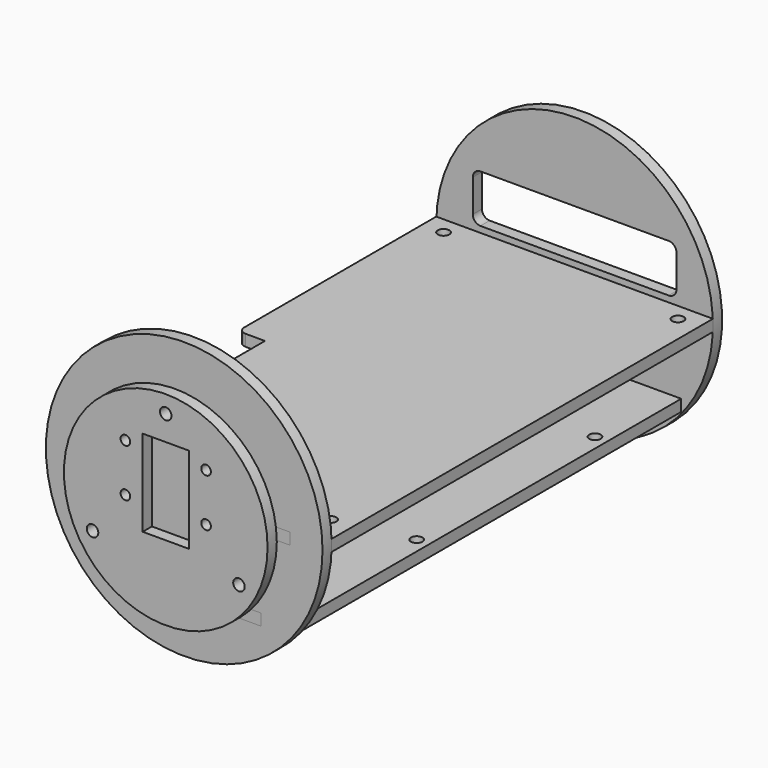
from build123d import *

# Parameters (mm, degrees)
F0_R      = 1.5
F0_W      = 15
F0_H      = 3
F1_DEPTH  = 3
F2_R      = 2
F3_R      = 36
F3_W      = 15
F3_H      = 3
F4_DEPTH  = 3
F5_R      = 36
F5_W      = 15
F5_H      = 3
F6_DEPTH  = 3
F8_R      = 1.5
F8_W      = 10
F8_H      = 3
F9_DEPTH  = 3
F10_W     = 10
F10_H     = 3
F11_DEPTH = 130
F13_R     = 26.5
F13_R_2   = 1.5
F13_R_3   = 1.25
F13_W     = 12
F13_H     = 22.5
F14_DEPTH = 3
F15_DEPTH = 25


with BuildPart() as f1:
    # F0 (on Top) → F1 (new body)
    with BuildSketch(Plane.XY):
        Polygon((-27.5, 62), (-36, 62), (-36, -2.48), (-29, -2.48), (-29, -17.48), (-36, -17.48), (-36, -62), (-27.5, -62), (-12.5, -62), (12.5, -62), (27.5, -62), (36, -62), (36, 62), (27.5, 62), (12.5, 62), (-12.5, 62), align=None)
        with Locations((-30.5, -55.5)):
            Circle(F0_R, mode=Mode.SUBTRACT)
        with Locations((30.5, -55.5)):
            Circle(F0_R, mode=Mode.SUBTRACT)
        with Locations((-30.5, 57.5)):
            Circle(F0_R, mode=Mode.SUBTRACT)
        with Locations((30.5, 57.5)):
            Circle(F0_R, mode=Mode.SUBTRACT)
        with Locations((20, 63.5)):
            Rectangle(F0_W, F0_H)
        with Locations((-20, 63.5)):
            Rectangle(F0_W, F0_H)
        with Locations((20, -63.5)):
            Rectangle(F0_W, F0_H)
        with Locations((-20, -63.5)):
            Rectangle(F0_W, F0_H)
    extrude(amount=F1_DEPTH)

    # F2
    f2_edges = [f1.edges().sort_by_distance(p)[0] for p in [
        (-36, -2.48, 1.5),
        (-36, -17.48, 1.5),
    ]]
    fillet(f2_edges, radius=F2_R)


with BuildPart() as f4:
    # F3 (on face) → F4 (new body)
    with BuildSketch(Plane.XZ.offset(62)):
        with Locations((0, 1.6103106318)):
            Circle(F3_R)
        with Locations((-20, 1.5)):
            Rectangle(F3_W, F3_H, mode=Mode.SUBTRACT)
        with Locations((20, 1.5)):
            Rectangle(F3_W, F3_H, mode=Mode.SUBTRACT)
    extrude(amount=F4_DEPTH)


with BuildPart() as f6:
    # F5 (on face) → F6 (new body)
    with BuildSketch(Plane(origin=(0, 62, 0), x_dir=(-1, 0, 0), z_dir=(0, 1, 0))):
        with Locations((0, 1.5)):
            Circle(F5_R)
        with Locations((-20, 1.5)):
            Rectangle(F5_W, F5_H, mode=Mode.SUBTRACT)
        with BuildLine():
            ThreePointArc((-26.5, 15.1), (-25.9142135624, 16.5142135624), (-24.5, 17.1))
            Line((-24.5, 17.1), (24.5, 17.1))
            ThreePointArc((24.5, 17.1), (25.9142135624, 16.5142135624), (26.5, 15.1))
            Line((26.5, 15.1), (26.5, 6.6))
            ThreePointArc((26.5, 6.6), (25.9142135624, 5.1857864376), (24.5, 4.6))
            Line((24.5, 4.6), (-24.5, 4.6))
            ThreePointArc((-24.5, 4.6), (-25.9142135624, 5.1857864376), (-26.5, 6.6))
            Line((-26.5, 6.6), (-26.5, 15.1))
        make_face(mode=Mode.SUBTRACT)
        with Locations((20, 1.5)):
            Rectangle(F5_W, F5_H, mode=Mode.SUBTRACT)
    extrude(amount=F6_DEPTH)


with BuildPart() as f9:
    # F8 (on offset) → F9 (new body)
    with BuildSketch(Plane(origin=(0, 0, -18), x_dir=(1, 0, 0), z_dir=(0, 0, -1))):
        Polygon((-20, 62), (-27.75, 62), (-27.75, -62), (-20, -62), (-10, -62), (10, -62), (20, -62), (27.75, -62), (27.75, 62), (20, 62), (10, 62), (-10, 62), align=None)
        with Locations((-24.5, -38)):
            Circle(F8_R, mode=Mode.SUBTRACT)
        with Locations((24.5, -38)):
            Circle(F8_R, mode=Mode.SUBTRACT)
        with Locations((-24.5, 20)):
            Circle(F8_R, mode=Mode.SUBTRACT)
        with Locations((24.5, 20)):
            Circle(F8_R, mode=Mode.SUBTRACT)
        with Locations((-15, 63.5)):
            Rectangle(F8_W, F8_H)
        with Locations((-15, -63.5)):
            Rectangle(F8_W, F8_H)
        with Locations((15, 63.5)):
            Rectangle(F8_W, F8_H)
        with Locations((15, -63.5)):
            Rectangle(F8_W, F8_H)
    extrude(amount=F9_DEPTH)


with BuildPart() as f11_tool:
    # F10 (on face) → F11 (new body, through all)
    with BuildSketch(Plane.XZ.offset(65)):
        with Locations((-15, -19.5)):
            Rectangle(F10_W, F10_H)
        with Locations((15, -19.5)):
            Rectangle(F10_W, F10_H)
    extrude(amount=-F11_DEPTH)


with BuildPart() as f4_1:
    add(f4.part)

    # F11: cut by f11_tool
    add(f11_tool.part, mode=Mode.SUBTRACT)

    # F13 (on offset) → F15 (cut)
    with BuildSketch(Plane.XZ.offset(68)):
        with Locations((0, 23.6103106318)):
            Circle(F13_R_2)
        with Locations((-19.0525588833, -9.3896893682)):
            Circle(F13_R_2)
        with Locations((19.0525588833, -9.3896893682)):
            Circle(F13_R_2)
    extrude(amount=-F15_DEPTH, mode=Mode.SUBTRACT)


with BuildPart() as f6_1:
    add(f6.part)

    # F11: cut by f11_tool
    add(f11_tool.part, mode=Mode.SUBTRACT)


with BuildPart() as f14:
    # F13 (on offset) → F14 (new body)
    with BuildSketch(Plane.XZ.offset(68)):
        with Locations((0, 1.6103106318)):
            Circle(F13_R)
        with Locations((-19.0525588833, -9.3896893682)):
            Circle(F13_R_2, mode=Mode.SUBTRACT)
        with Locations((-10.5, 1.6103106318)):
            Circle(F13_R_3, mode=Mode.SUBTRACT)
        with Locations((19.0525588833, -9.3896893682)):
            Circle(F13_R_2, mode=Mode.SUBTRACT)
        with Locations((-10.5, 14.1103106318)):
            Circle(F13_R_3, mode=Mode.SUBTRACT)
        with Locations((0, 5.8603106318)):
            Rectangle(F13_W, F13_H, mode=Mode.SUBTRACT)
        with Locations((10.5, 1.6103106318)):
            Circle(F13_R_3, mode=Mode.SUBTRACT)
        with Locations((10.5, 14.1103106318)):
            Circle(F13_R_3, mode=Mode.SUBTRACT)
        with Locations((0, 23.6103106318)):
            Circle(F13_R_2, mode=Mode.SUBTRACT)
    extrude(amount=F14_DEPTH)


solid = Compound([f1.part, f9.part, f4_1.part, f6_1.part, f14.part])
